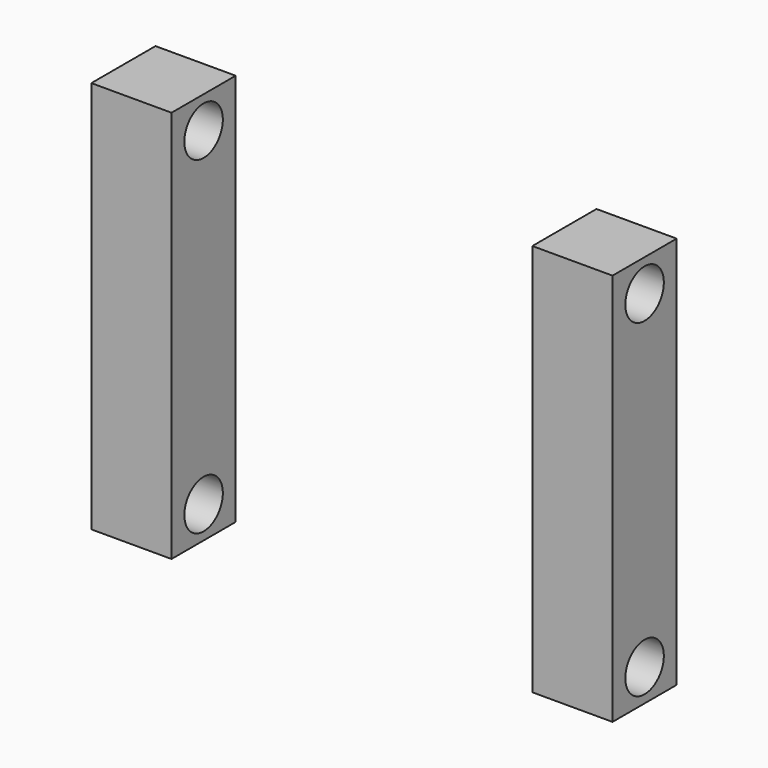
from build123d import *

# Parameters (mm, degrees)
F0_W     = 100
F0_H     = 100
F1_DEPTH = 490
F2_R     = 30
F3_DEPTH = 100
F4_R     = 30
F5_DEPTH = 100
F6_R     = 30
F7_DEPTH = 100
F8_R     = 30
F9_DEPTH = 100


with BuildPart() as f1:
    # F0 (on Top) → F1 (new body)
    with BuildSketch(Plane.XY):
        with Locations((-275, 0)):
            Rectangle(F0_W, F0_H)
        with Locations((275, 0)):
            Rectangle(F0_W, F0_H)
    extrude(amount=F1_DEPTH)

    # F2 (on face) → F3 (cut)
    with BuildSketch(Plane(origin=(-325, 0, 0), x_dir=(0, -1, 0), z_dir=(-1, 0, 0))):
        with Locations((0, 450)):
            Circle(F2_R)
    extrude(amount=-F3_DEPTH, mode=Mode.SUBTRACT)

    # F4 (on face) → F5 (cut)
    with BuildSketch(Plane.YZ.offset(325)):
        with Locations((0, 450)):
            Circle(F4_R)
    extrude(amount=-F5_DEPTH, mode=Mode.SUBTRACT)

    # F6 (on face) → F7 (cut)
    with BuildSketch(Plane(origin=(-325, 0, 0), x_dir=(0, -1, 0), z_dir=(-1, 0, 0))):
        with Locations((0, 40)):
            Circle(F6_R)
    extrude(amount=-F7_DEPTH, mode=Mode.SUBTRACT)

    # F8 (on face) → F9 (cut)
    with BuildSketch(Plane.YZ.offset(325)):
        with Locations((0, 40)):
            Circle(F8_R)
    extrude(amount=-F9_DEPTH, mode=Mode.SUBTRACT)


solid = f1.part
